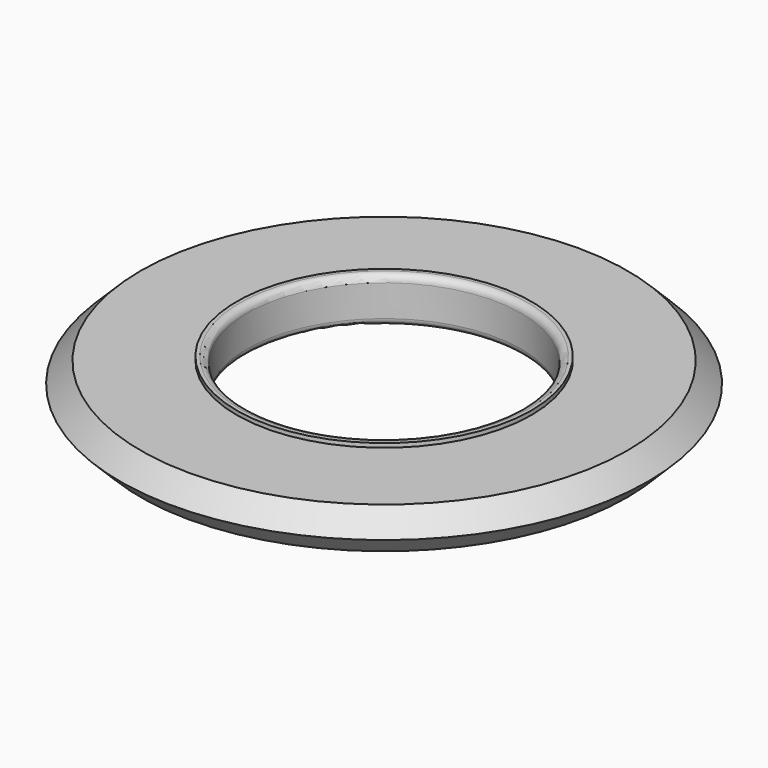
from build123d import *

# Parameters (mm, degrees)
POLARPATTERN_COUNT = 8
FILLET_R           = 1
FILLET001_R        = 1
SKETCH003_R        = 1.15


with BuildPart() as outer:
    # Sketch → Revolution (revolve)
    with BuildSketch(Plane.XZ):
        Polygon((35.5, 0), (38.5, 3), (21.5, 3), (21.5, 6.6), (20, 6.6), (20, 3), (20, 0), align=None)
    revolve(axis=Axis((0, 0, 0), (0, 0, 1)))

    # Sphere → Sphere (revolve)
    with BuildSketch(Plane(origin=(35.1, 0, 3), x_dir=(1, 0, 0), z_dir=(0, -1, 0))):
        with BuildLine():
            ThreePointArc((0, -1), (1, 0), (0, 1))
            Line((0, 1), (0, -1))
        make_face()
    revolve(axis=Axis((35.1, 0, 3), (0, 0, 1)))

    # Sphere001 → Sphere001 (revolve)
    with BuildSketch(Plane(origin=(24.9, 0, 3), x_dir=(1, 0, 0), z_dir=(0, -1, 0))):
        with BuildLine():
            ThreePointArc((0, -1), (1, 0), (0, 1))
            Line((0, 1), (0, -1))
        make_face()
    revolve(axis=Axis((24.9, 0, 3), (0, 0, 1)))

    # PolarPattern: outer ×8 about axis
    polarpattern_axis = Axis((0, 0, 0), (0, 0, 1))


with BuildPart() as outer_1:
    add(outer.part)
    for i in range(1, POLARPATTERN_COUNT):
        add(outer.part.rotate(polarpattern_axis, i * 360 / POLARPATTERN_COUNT))

    # Fillet
    fillet_edges = [outer_1.edges().sort_by_distance(p)[0] for p in [
        (18.477591, 7.653669, 0),
        (18.477591, -7.653669, 0),
        (7.653669, -18.477591, 0),
        (-7.653669, -18.477591, 0),
        (-18.477591, -7.653669, 0),
        (-18.477591, 7.653669, 0),
        (-7.653669, 18.477591, 0),
        (7.653669, 18.477591, 0),
    ]]
    fillet(fillet_edges, radius=FILLET_R)

    # Fillet001
    fillet001_edges = [outer_1.edges().sort_by_distance(p)[0] for p in [
        (18.477591, -7.653669, 6.6),
        (7.653669, -18.477591, 6.6),
        (-7.653669, -18.477591, 6.6),
        (-18.477591, -7.653669, 6.6),
        (-18.477591, 7.653669, 6.6),
        (-7.653669, 18.477591, 6.6),
        (7.653669, 18.477591, 6.6),
        (18.477591, 7.653669, 6.6),
    ]]
    fillet(fillet001_edges, radius=FILLET001_R)


with BuildPart() as inner:
    # Sketch001 → Revolution001 (revolve)
    with BuildSketch(Plane.XZ):
        Polygon((21.5, 6), (21.5, 3), (38.5, 3), (35.5, 6), align=None)
    revolve(axis=Axis((0, 0, 0), (0, 0, 1)))

    # Sketch003 → Groove (revolve, cut)
    with BuildSketch(Plane.XZ):
        with Locations((35.1, 3)):
            Circle(SKETCH003_R)
        with Locations((24.9, 3)):
            Circle(SKETCH003_R)
    revolve(axis=Axis((0, 0, 0), (0, 0, 1)), mode=Mode.SUBTRACT)

    # Sketch003 → Groove001 (revolve, cut)
    with BuildSketch(Plane.XZ):
        with Locations((35.1, 3)):
            Circle(SKETCH003_R)
        with Locations((24.9, 3)):
            Circle(SKETCH003_R)
    revolve(axis=Axis((0, 0, 0), (0, 0, 1)), mode=Mode.SUBTRACT)


solid = Compound([outer_1.part, inner.part])
